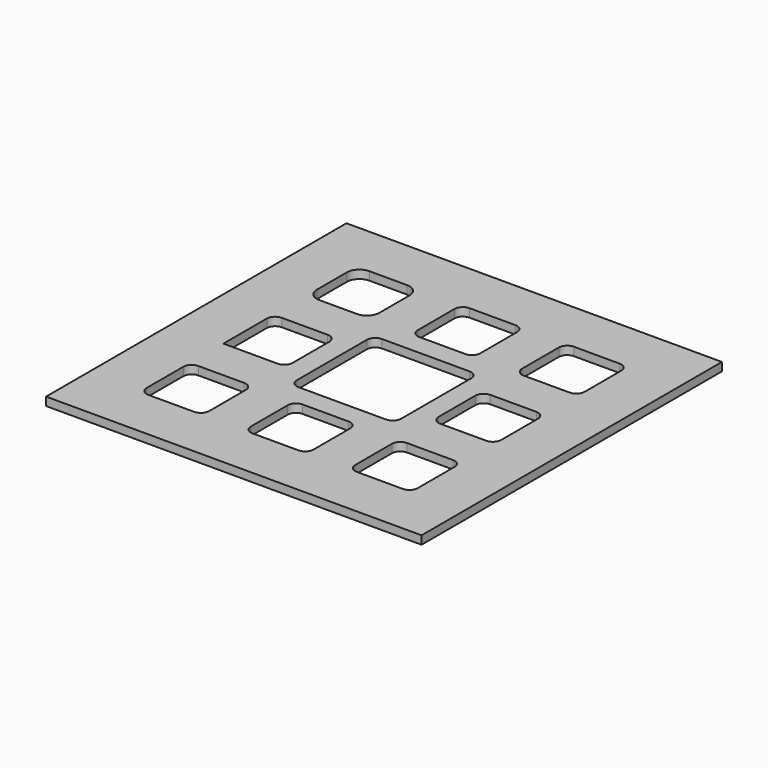
from build123d import *

# Parameters (mm, degrees)
F0_W     = 228.6
F0_H     = 228.6
F0_W_2   = 63.5
F0_H_2   = 63.5
F1_DEPTH = 5.08
F2_W     = 38.1
F2_H     = 38.1
F3_DEPTH = 25.4
F4_R     = 7.62
F5_W     = 38.1
F5_H     = 38.1
F6_DEPTH = 25.4
F7_R     = 5.08
F8_R     = 5.08


with BuildPart() as f1:
    # F0 (on Top) → F1 (new body)
    with BuildSketch(Plane.XY):
        Rectangle(F0_W, F0_H)
        Rectangle(F0_W_2, F0_H_2, mode=Mode.SUBTRACT)
    extrude(amount=F1_DEPTH)

    # F2 (on face) → F3 (cut)
    with BuildSketch(Plane.XY.offset(5.08)):
        with Locations((-63.5, 63.5)):
            Rectangle(F2_W, F2_H)
    extrude(amount=-F3_DEPTH, mode=Mode.SUBTRACT)

    # F4
    f4_edges = [f1.edges().sort_by_distance(p)[0] for p in [
        (-82.55, 82.55, 2.54),
        (-44.45, 82.55, 2.54),
        (-44.45, 44.45, 2.54),
        (-82.55, 44.45, 2.54),
    ]]
    fillet(f4_edges, radius=F4_R)

    # F5 (on face) → F6 (cut)
    with BuildSketch(Plane.XY.offset(5.08)):
        with Locations((-63.5, 0)):
            Rectangle(F5_W, F5_H)
        with Locations((0, 63.5)):
            Rectangle(F5_W, F5_H)
        with Locations((63.5, 63.5)):
            Rectangle(F5_W, F5_H)
        with Locations((63.5, 0)):
            Rectangle(F5_W, F5_H)
        with Locations((63.5, -63.5)):
            Rectangle(F5_W, F5_H)
        with Locations((0, -63.5)):
            Rectangle(F5_W, F5_H)
        with Locations((-63.5, -63.5)):
            Rectangle(F5_W, F5_H)
    extrude(amount=-F6_DEPTH, mode=Mode.SUBTRACT)

    # F7
    f7_edges = [f1.edges().sort_by_distance(p)[0] for p in [
        (-82.55, 19.05, 2.54),
        (-82.55, -44.45, 2.54),
        (-31.75, 31.75, 2.54),
        (-19.05, 82.55, 2.54),
        (44.45, 19.05, 2.54),
        (44.45, 82.55, 2.54),
        (44.45, -44.45, 2.54),
        (-19.05, -44.45, 2.54),
        (82.55, 82.55, 2.54),
        (82.55, 19.05, 2.54),
        (82.55, -44.45, 2.54),
        (19.05, -44.45, 2.54),
        (31.75, 31.75, 2.54),
        (-44.45, -44.45, 2.54),
        (-44.45, 19.05, 2.54),
        (19.05, 82.55, 2.54),
        (19.05, 44.45, 2.54),
        (82.55, -19.05, 2.54),
        (82.55, -82.55, 2.54),
        (19.05, -82.55, 2.54),
        (-44.45, -82.55, 2.54),
        (-44.45, -19.05, 2.54),
        (31.75, -31.75, 2.54),
        (-82.55, -82.55, 2.54),
        (-19.05, -82.55, 2.54),
        (44.45, -82.55, 2.54),
        (44.45, -19.05, 2.54),
        (44.45, 44.45, 2.54),
        (-19.05, 44.45, 2.54),
        (82.55, 44.45, 2.54),
    ]]
    fillet(f7_edges, radius=F7_R)

    # F8
    f8_edges = [f1.edges().sort_by_distance(p)[0] for p in [
        (-31.75, -31.75, 2.54),
    ]]
    fillet(f8_edges, radius=F8_R)


solid = f1.part
